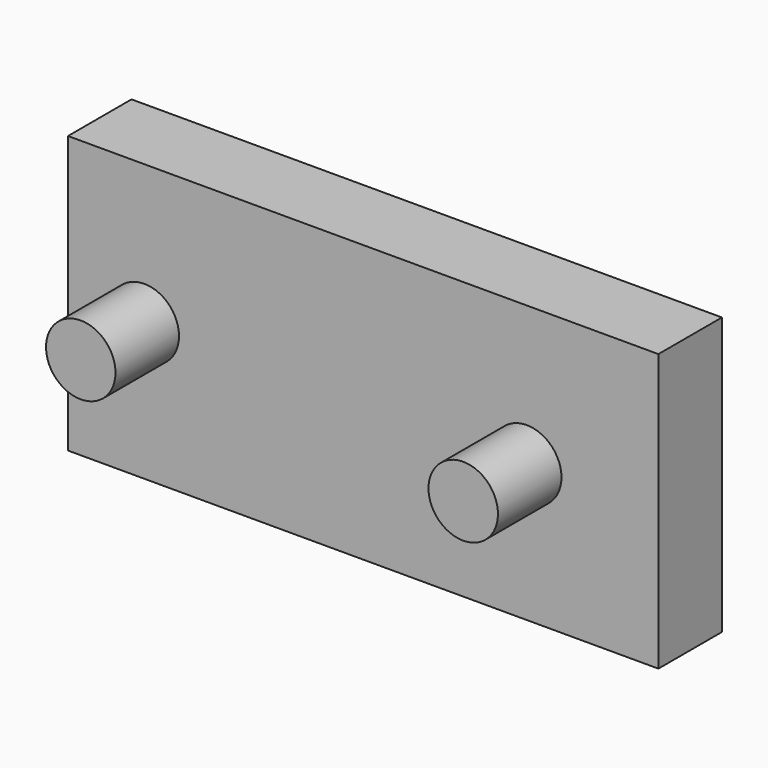
from build123d import *

# Parameters (mm, degrees)
F0_R     = 5.55625
F2_DEPTH = 25.4
F0_W     = 94.438538
F0_H     = 44.294181
F3_DEPTH = 12.7


with BuildPart() as f2:
    # F0 (on Front) → F2 (new body)
    with BuildSketch(Plane.XZ):
        with Locations((29.752316, 0)):
            Circle(F0_R)
        with Locations((-31.423795, 0)):
            Circle(F0_R)
    extrude(amount=F2_DEPTH)


with BuildPart() as f3:
    # F0 (on Front) → F3 (new body)
    with BuildSketch(Plane.XZ):
        with Locations((3.59368, 0.250721)):
            Rectangle(F0_W, F0_H)
        with Locations((-31.423795, 0)):
            Circle(F0_R, mode=Mode.SUBTRACT)
        with Locations((29.752316, 0)):
            Circle(F0_R, mode=Mode.SUBTRACT)
    extrude(amount=F3_DEPTH)


solid = Compound([f2.part, f3.part])
